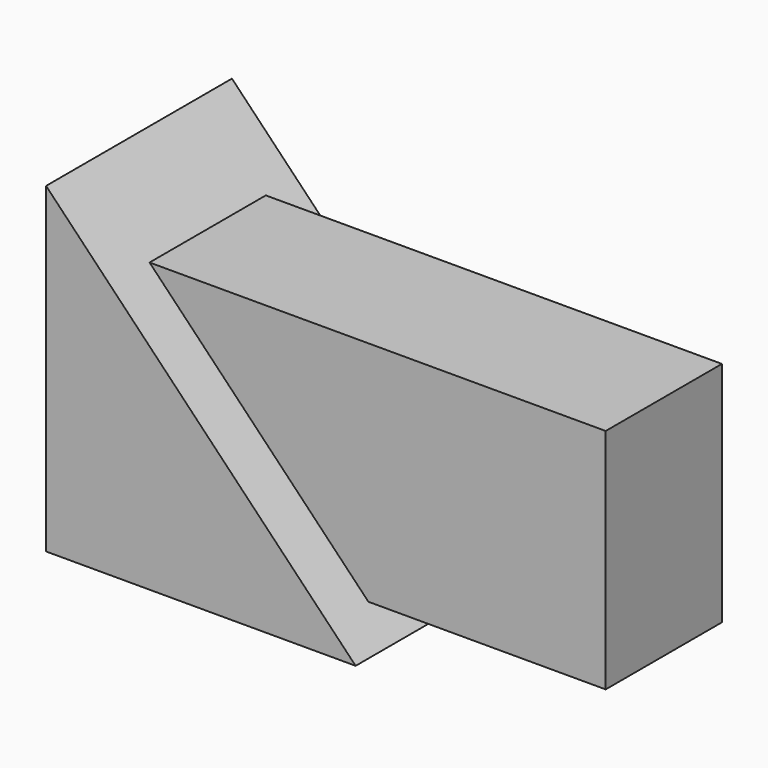
from build123d import *

# Parameters (mm, degrees)
F1_DEPTH = 84.0288382024
F4_W     = 52.5419712067
F4_H     = 82.2811126709


with BuildPart() as f1:
    # F0 (on Front) → F1 (new body)
    with BuildSketch(Plane.XZ):
        Polygon((58.445379138, -63.900783658), (-53.5063222051, 52.4989590049), (-53.5063222051, -63.900783658), align=None)
    extrude(amount=F1_DEPTH)

    # F4 (on offset) → F5 (join, up to the next surface of F1)
    with BuildSketch(Plane.YZ.offset(134.6250604838)):
        with Locations((-39.9457663298, -12.7352923155)):
            Rectangle(F4_W, F4_H)
    extrude(until=Until.NEXT, dir=(-1, 0, 0))


solid = f1.part
